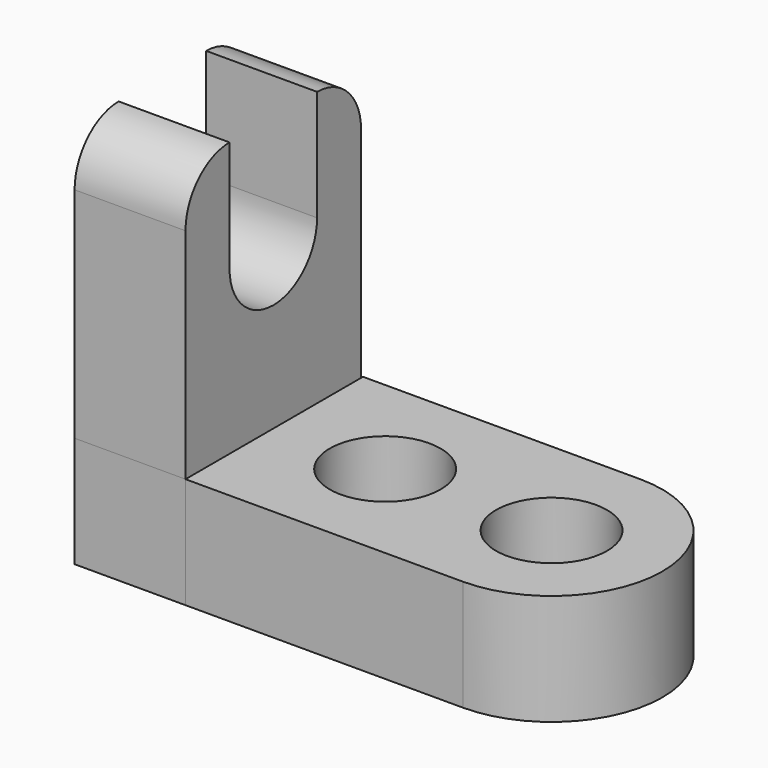
from build123d import *

# Parameters (mm, degrees)
F0_R     = 12.7
F1_DEPTH = 25.4
F2_W     = 50.247877
F2_H     = 25.4
F3_DEPTH = 25.4


with BuildPart() as f1:
    # F0 (on Top) → F1 (new body)
    with BuildSketch(Plane.XY):
        with BuildLine():
            Line((29.928832, 21.836502), (-33.571168, 21.836502))
            Line((-33.571168, 21.836502), (-33.571168, -28.963498))
            Line((-33.571168, -28.963498), (29.928832, -28.963498))
            ThreePointArc((29.928832, -28.963498), (55.328832, -3.563498), (29.928832, 21.836502))
        make_face()
        with Locations((-8.171168, -3.563498)):
            Circle(F0_R, mode=Mode.SUBTRACT)
        with Locations((29.928832, -3.563498)):
            Circle(F0_R, mode=Mode.SUBTRACT)
    extrude(amount=F1_DEPTH)

    # F2 (on face) → F3 (join)
    with BuildSketch(Plane(origin=(-33.571168, 0, 0), x_dir=(0, -1, 0), z_dir=(-1, 0, 0))):
        with BuildLine():
            Line((-21.284379, 25.4), (28.963498, 25.4))
            Line((28.963498, 25.4), (28.963498, 62.787746))
            Line((28.963498, 62.787746), (28.963498, 75.487746))
            ThreePointArc((28.963498, 75.487746), (25.281452, 84.430145), (16.370348, 88.187297))
            Line((16.370348, 88.187297), (16.370348, 62.787746))
            ThreePointArc((16.370348, 62.787746), (3.839559, 50.256958), (-8.691229, 62.787746))
            Line((-8.691229, 62.787746), (-8.691229, 88.187297))
            ThreePointArc((-8.691229, 88.187297), (-17.602333, 84.430145), (-21.284379, 75.487746))
            Line((-21.284379, 75.487746), (-21.284379, 62.787746))
            Line((-21.284379, 62.787746), (-21.284379, 25.4))
        make_face()
        with Locations((3.83956, 12.7)):
            Rectangle(F2_W, F2_H)
    extrude(amount=F3_DEPTH)


solid = f1.part
